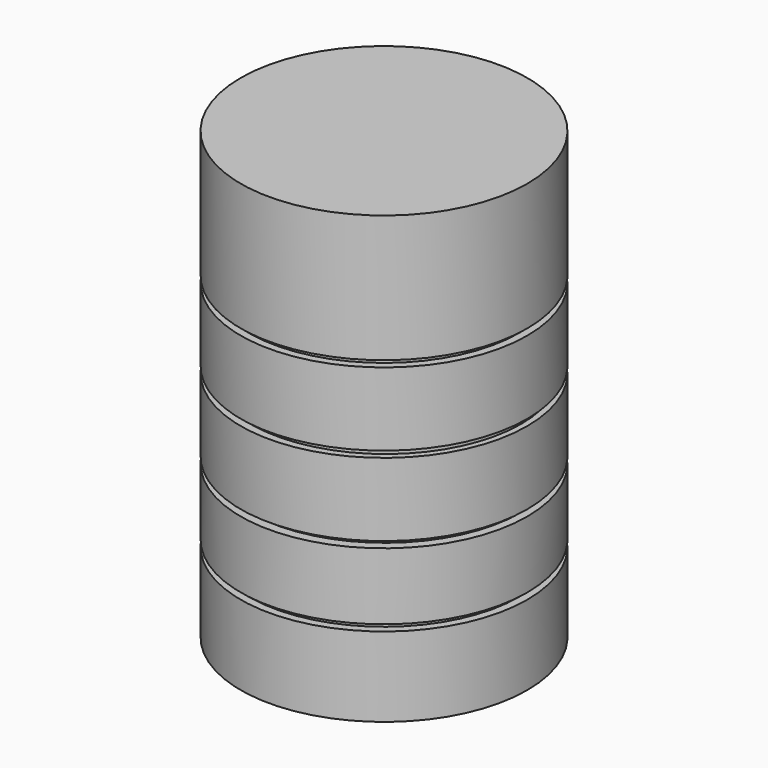
from build123d import *

# Parameters (mm, degrees)
F0_R      = 1.143
F1_DEPTH  = 3.556
F6_R      = 1.143
F6_R_2    = 1.0795
F7_DEPTH  = 0.0508
F8_R      = 1.1557
F8_R_2    = 1.0795
F9_DEPTH  = 0.0508
F10_R     = 1.1684
F10_R_2   = 1.0795
F11_DEPTH = 0.0508
F12_R     = 1.1557
F12_R_2   = 1.0795
F13_DEPTH = 0.0508


with BuildPart() as f1:
    # F0 (on Top) → F1 (new body)
    with BuildSketch(Plane.XY):
        Circle(F0_R)
    extrude(amount=F1_DEPTH)

    # F6 (on offset) → F7 (cut)
    with BuildSketch(Plane.XY.offset(0.635)):
        Circle(F6_R)
        Circle(F6_R_2, mode=Mode.SUBTRACT)
    extrude(amount=F7_DEPTH, mode=Mode.SUBTRACT)

    # F8 (on offset) → F9 (cut)
    with BuildSketch(Plane.XY.offset(1.27)):
        with Locations((-0.00146219, 0.0118558792)):
            Circle(F8_R)
        with Locations((-0.00146219, 0.0118558792)):
            Circle(F8_R_2, mode=Mode.SUBTRACT)
    extrude(amount=-F9_DEPTH, mode=Mode.SUBTRACT)

    # F10 (on offset) → F11 (cut)
    with BuildSketch(Plane.XY.offset(1.905)):
        with Locations((0.0160238542, -0.0025977133)):
            Circle(F10_R)
        with Locations((0.0160238542, -0.0025977133)):
            Circle(F10_R_2, mode=Mode.SUBTRACT)
    extrude(amount=-F11_DEPTH, mode=Mode.SUBTRACT)

    # F12 (on offset) → F13 (cut)
    with BuildSketch(Plane.XY.offset(2.54)):
        with Locations((0.0012521425, -0.0025977133)):
            Circle(F12_R)
        with Locations((0.0012521425, -0.0025977133)):
            Circle(F12_R_2, mode=Mode.SUBTRACT)
    extrude(amount=-F13_DEPTH, mode=Mode.SUBTRACT)


solid = f1.part
